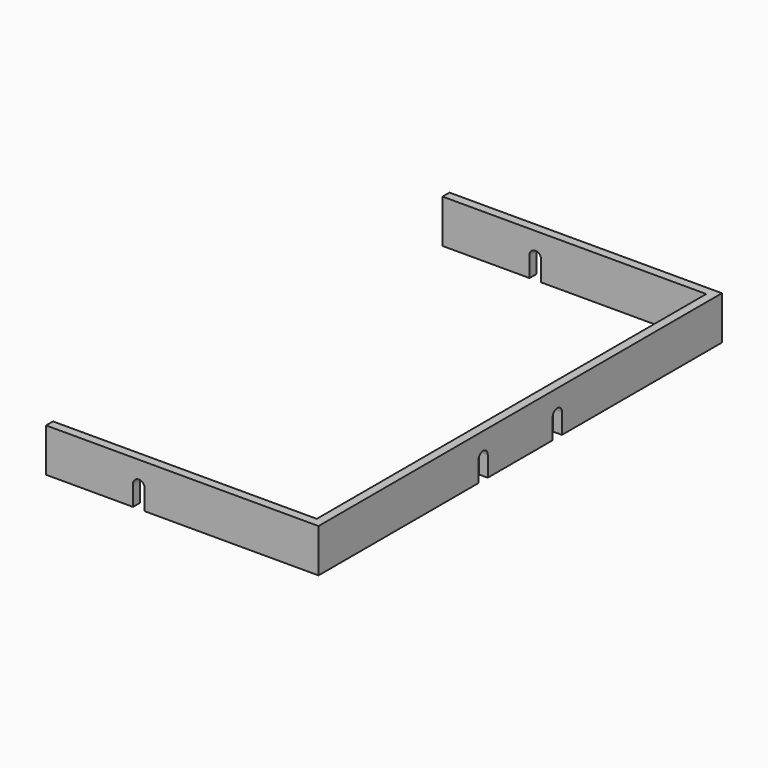
from build123d import *

# Parameters (mm, degrees)
F0_W     = 94
F0_H     = 174
F1_DEPTH = 15
F2_T     = -3
F4_DEPTH = 100
F6_DEPTH = 125


with BuildPart() as f1:
    # F0 (on Top) → F1 (new body)
    with BuildSketch(Plane.XY):
        Rectangle(F0_W, F0_H)
    extrude(amount=F1_DEPTH)

    # F2
    f2_openings = [f1.faces().sort_by_distance(p)[0] for p in [
        (0, 0, 15),
        (-47, 0, 7.5),
        (0, 0, 0),
    ]]
    offset(amount=F2_T, openings=f2_openings)

    # F3 (on Right) → F4 (cut)
    with BuildSketch(Plane.YZ):
        with BuildLine():
            Line((-18, 7), (-14, 7))
            ThreePointArc((-14, 7), (-16, 9), (-18, 7))
        make_face()
        with BuildLine():
            Line((-14, 0), (-14, 7))
            ThreePointArc((-14, 7), (-16, 5), (-18, 7))
            Line((-18, 7), (-18, 0))
            Line((-18, 0), (-14, 0))
        make_face()
        with BuildLine():
            ThreePointArc((-18, 7), (-16, 5), (-14, 7))
            Line((-14, 7), (-18, 7))
        make_face()
        with BuildLine():
            Line((14, 7), (18, 7))
            ThreePointArc((18, 7), (16, 9), (14, 7))
        make_face()
        with BuildLine():
            Line((18, 0), (18, 7))
            ThreePointArc((18, 7), (16, 5), (14, 7))
            Line((14, 7), (14, 0))
            Line((14, 0), (18, 0))
        make_face()
        with BuildLine():
            ThreePointArc((14, 7), (16, 5), (18, 7))
            Line((18, 7), (14, 7))
        make_face()
    extrude(amount=F4_DEPTH, mode=Mode.SUBTRACT)

    # F5 (on Front) → F6 (cut, symmetric)
    with BuildSketch(Plane.XZ):
        with BuildLine():
            Line((-17, 7), (-13, 7))
            ThreePointArc((-13, 7), (-15, 9), (-17, 7))
        make_face()
        with BuildLine():
            Line((-13, 0), (-13, 7))
            ThreePointArc((-13, 7), (-15, 5), (-17, 7))
            Line((-17, 7), (-17, 0))
            Line((-17, 0), (-13, 0))
        make_face()
        with BuildLine():
            ThreePointArc((-17, 7), (-15, 5), (-13, 7))
            Line((-13, 7), (-17, 7))
        make_face()
    extrude(amount=F6_DEPTH, both=True, mode=Mode.SUBTRACT)


solid = f1.part
